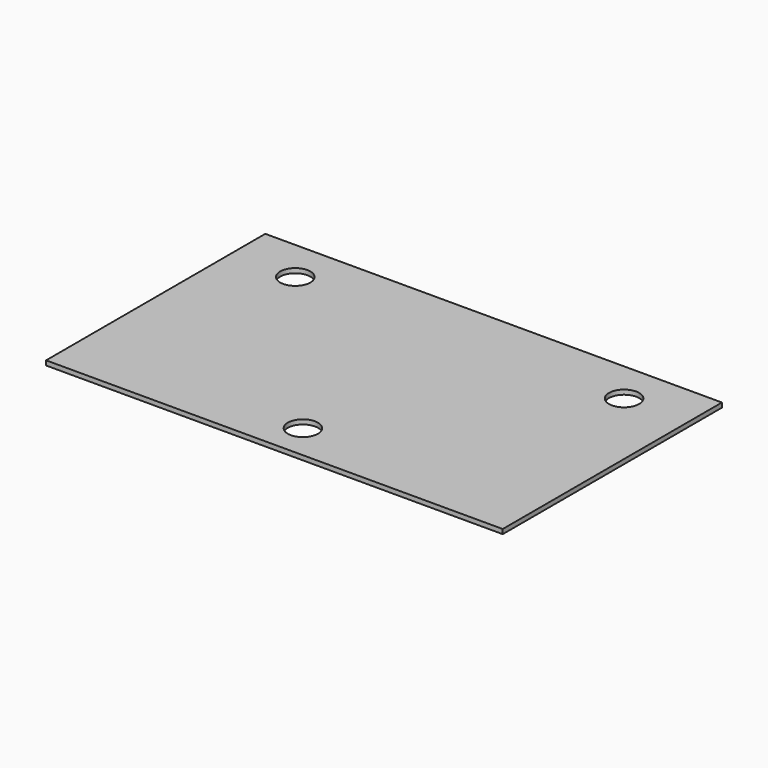
from build123d import *

# Parameters (mm, degrees)
F0_W            = 50
F0_H            = 8
F1_DEPTH        = 4
F3_DEPTH        = 5
F4_DEPTH        = 5
F5_D            = 3.3
F5_CBORE_D      = 6.5
F5_CBORE_DEPTH  = 0
F6_DEPTH        = 1.1
F7_DEPTH        = 4.4
F8_DEPTH        = 3.5
F9_DEPTH        = 8.7
F11_D           = 3.3
F11_CBORE_D     = 6.5
F11_CBORE_DEPTH = 0


with BuildPart() as f1:
    # F0 (on Top) → F1 (new body)
    with BuildSketch(Plane.XY):
        Rectangle(F0_W, F0_H)
    extrude(amount=F1_DEPTH)

    # F3 (add): a face of the model
    f3_faces = [f1.faces().sort_by_distance(p)[0] for p in [
        (0, -4, 2),
    ]]
    extrude(f3_faces, amount=F3_DEPTH)

    # F4 (add): a face of the model
    f4_faces = [f1.faces().sort_by_distance(p)[0] for p in [
        (0, 4, 2),
    ]]
    extrude(f4_faces, amount=F4_DEPTH)

    # F5 (through all)
    with Locations(Plane.XY.offset(4)):
        with Locations((0, -4)):
            CounterBoreHole(F5_D / 2, F5_CBORE_D / 2, F5_CBORE_DEPTH)

    # F6 (cut): a face of the model
    f6_faces = [f1.faces().sort_by_distance(p)[0] for p in [
        (0, -9, 2),
    ]]
    extrude(f6_faces, amount=-F6_DEPTH, mode=Mode.SUBTRACT)

    # F7 (add): a face of the model
    f7_faces = [f1.faces().sort_by_distance(p)[0] for p in [
        (0, 9, 2),
    ]]
    extrude(f7_faces, amount=F7_DEPTH)

    # F8 (cut): a face of the model
    f8_faces = [f1.faces().sort_by_distance(p)[0] for p in [
        (0, 2.8046479423, 0),
    ]]
    extrude(f8_faces, amount=-F8_DEPTH, mode=Mode.SUBTRACT)

    # F9 (add): a face of the model
    f9_faces = [f1.faces().sort_by_distance(p)[0] for p in [
        (0, 13.4, 3.75),
    ]]
    extrude(f9_faces, amount=F9_DEPTH)

    # F11 (through all)
    with Locations(Plane.XY.offset(4)):
        with Locations((-18, 17.4584981568), (18, 17.4584981568)):
            CounterBoreHole(F11_D / 2, F11_CBORE_D / 2, F11_CBORE_DEPTH)


solid = f1.part
